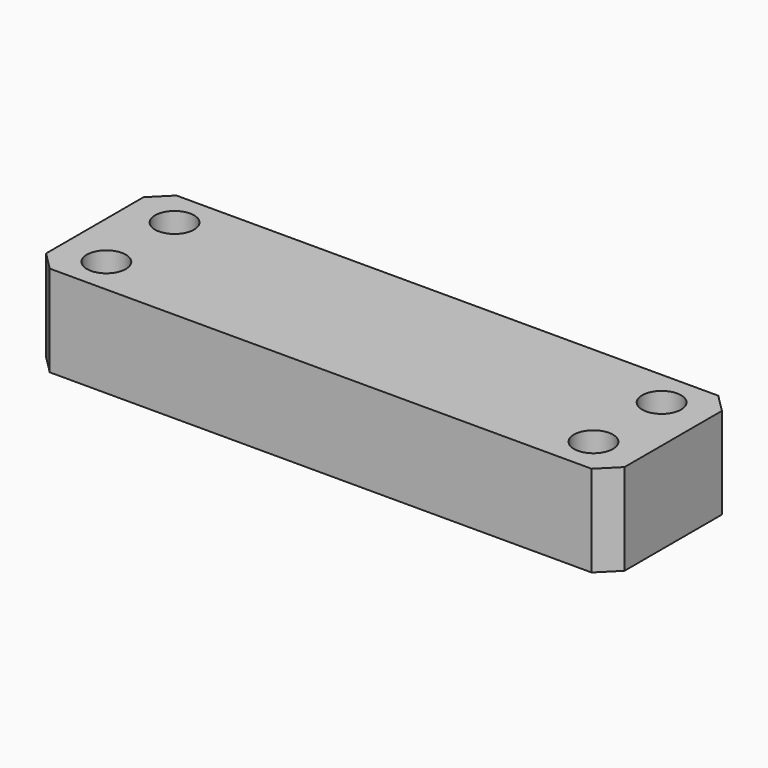
from build123d import *

# Parameters (mm, degrees)
F0_W     = 95
F0_H     = 26
F1_DEPTH = 7.5
F3_D     = 6.4
F4_SIZE  = 3


with BuildPart() as f1:
    # F0 (on Top) → F1 (new body, symmetric)
    with BuildSketch(Plane.XY):
        Rectangle(F0_W, F0_H)
    extrude(amount=F1_DEPTH, both=True)

    # F3 (through all)
    with Locations(Plane.XY.offset(7.5)):
        with Locations((-40, 7), (-40, -7), (40, 7), (40, -7)):
            Hole(F3_D / 2)

    # F4
    f4_edges = [f1.edges().sort_by_distance(p)[0] for p in [
        (-47.5, 13, 0),
        (47.5, 13, 0),
        (47.5, -13, 0),
        (-47.5, -13, 0),
    ]]
    chamfer(f4_edges, length=F4_SIZE)


solid = f1.part
